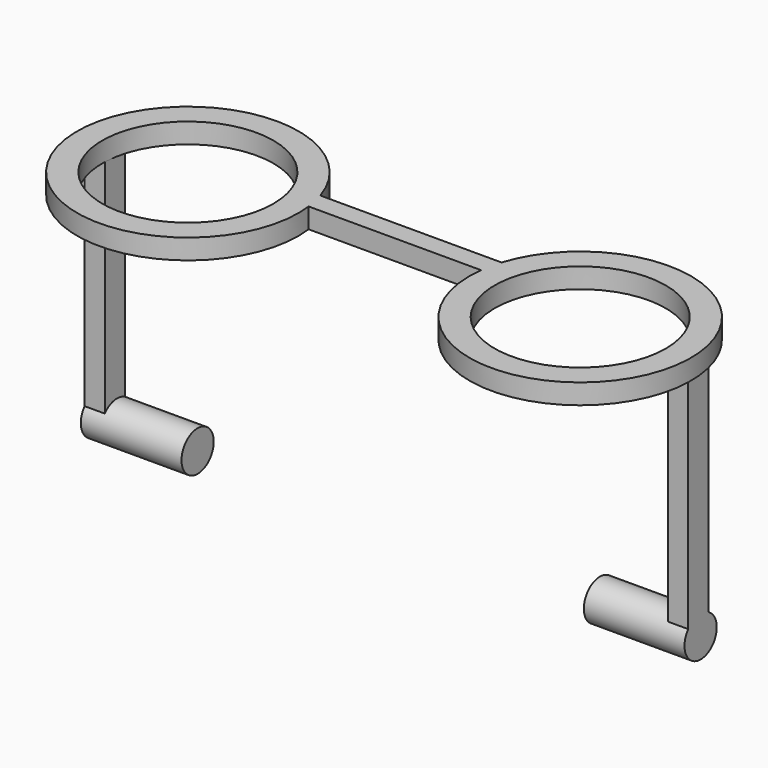
from build123d import *

# Parameters (mm, degrees)
F0_R     = 10.795
F1_DEPTH = 2.54
F2_W     = 2.54
F2_H     = 3.175
F3_DEPTH = 27.94
F4_R     = 2.54
F5_DEPTH = 12.7
F6_R     = 2.54
F7_DEPTH = 12.7


with BuildPart() as f1:
    # F0 (on Top) → F1 (new body)
    with BuildSketch(Plane.XY):
        with BuildLine():
            Line((-25.97766, 37.288579), (-48.83766, 37.288579))
            ThreePointArc((-48.83766, 37.288579), (-75.791844, 30.04831), (-48.28081, 34.748579))
            Line((-48.28081, 34.748579), (-26.531821, 34.748579))
            ThreePointArc((-26.531821, 34.748579), (0.983912, 30.075824), (-25.97766, 37.288579))
        make_face()
        with Locations((-62.145926, 33.039937)):
            Circle(F0_R, mode=Mode.SUBTRACT)
        with Locations((-12.665021, 33.053661)):
            Circle(F0_R, mode=Mode.SUBTRACT)
    extrude(amount=F1_DEPTH)

    # F2 (on face) → F3 (join)
    with BuildSketch(Plane(origin=(0, 0, 0), x_dir=(1, 0, 0), z_dir=(0, 0, -1))):
        with Locations((-74.204193, -35.008655)):
            Rectangle(F2_W, F2_H)
        with Locations((-0.611128, -35.008655)):
            Rectangle(F2_W, F2_H)
    extrude(amount=F3_DEPTH)

    # F4 (on face) → F5 (join)
    with BuildSketch(Plane(origin=(-75.474193, 0, 0), x_dir=(0, -1, 0), z_dir=(-1, 0, 0))):
        with Locations((-35.361529, -29.579069)):
            Circle(F4_R)
    extrude(amount=-F5_DEPTH)

    # F6 (on face) → F7 (join)
    with BuildSketch(Plane.YZ.offset(0.658872)):
        with Locations((35.381455, -29.570073)):
            Circle(F6_R)
    extrude(amount=-F7_DEPTH)


solid = f1.part
